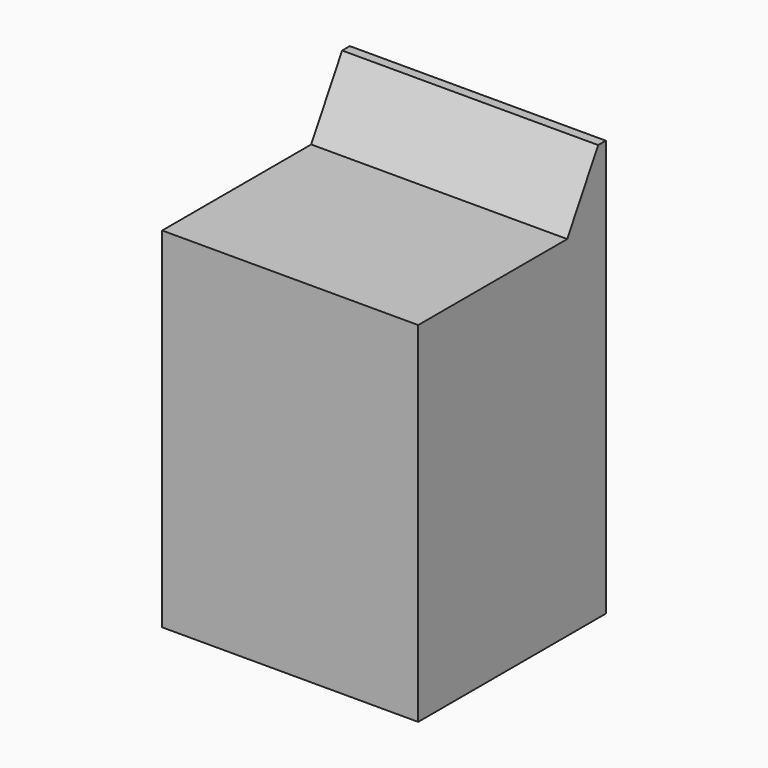
from build123d import *

# Parameters (mm, degrees)
F0_W     = 679.45
F0_H     = 622.3
F1_DEPTH = 927.1
F3_DEPTH = 679.45


with BuildPart() as f1:
    # F0 (on Top) → F1 (new body)
    with BuildSketch(Plane.XY):
        with Locations((3.921125, 57.97994)):
            Rectangle(F0_W, F0_H)
    extrude(amount=F1_DEPTH)

    # F2 (on face) → F3 (join, through all)
    with BuildSketch(Plane(origin=(-335.803875, 0, 0), x_dir=(0, -1, 0), z_dir=(-1, 0, 0))):
        Polygon((-369.12994, 1104.9), (-369.12994, 927.1), (-241.077062, 927.1), (-343.72994, 1104.9), align=None)
    extrude(amount=-F3_DEPTH)


solid = f1.part
